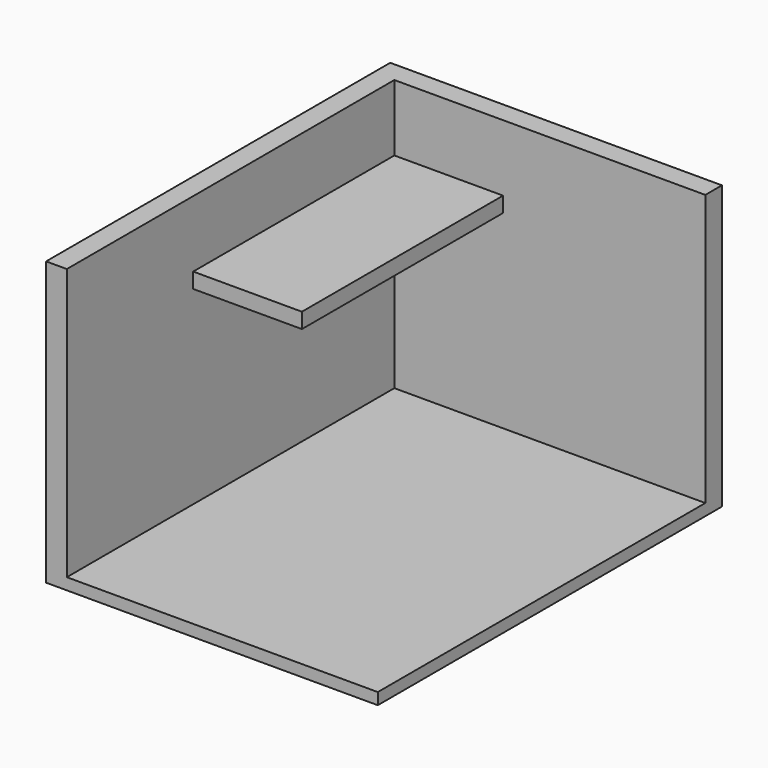
from build123d import *

# Parameters (mm, degrees)
F0_W     = 108.7121069431
F0_H     = 140.9654691815
F0_W_2   = 95.1121076941
F0_H_2   = 127.3654699326
F1_DEPTH = 88.9
F2_W     = 108.7121069431
F2_H     = 140.9654691815
F3_DEPTH = 3.8
F4_W     = 101.9121073186
F4_H     = 134.165469557
F5_DEPTH = 88.9
F6_W     = 35.625605844
F6_H     = 5.0125271082
F7_DEPTH = 82.4


with BuildPart() as f1:
    # F0 (on Top) → F1 (new body)
    with BuildSketch(Plane.XY):
        Rectangle(F0_W, F0_H)
        Rectangle(F0_W_2, F0_H_2, mode=Mode.SUBTRACT)
    extrude(amount=F1_DEPTH)

    # F2 (on face) → F3 (join)
    with BuildSketch(Plane(origin=(0, 0, 0), x_dir=(1, 0, 0), z_dir=(0, 0, -1))):
        Rectangle(F2_W, F2_H)
    extrude(amount=F3_DEPTH)

    # F4 (on face) → F5 (cut, through all)
    with BuildSketch(Plane.XY.offset(88.9)):
        with Locations((3.3999998122, -3.3999998122)):
            Rectangle(F4_W, F4_H)
    extrude(amount=-F5_DEPTH, mode=Mode.SUBTRACT)

    # F6 (on face) → F7 (join)
    with BuildSketch(Plane.XZ.offset(-63.6827349663)):
        with Locations((-29.7432509251, 64.6251067519)):
            Rectangle(F6_W, F6_H)
    extrude(amount=F7_DEPTH)


solid = f1.part
